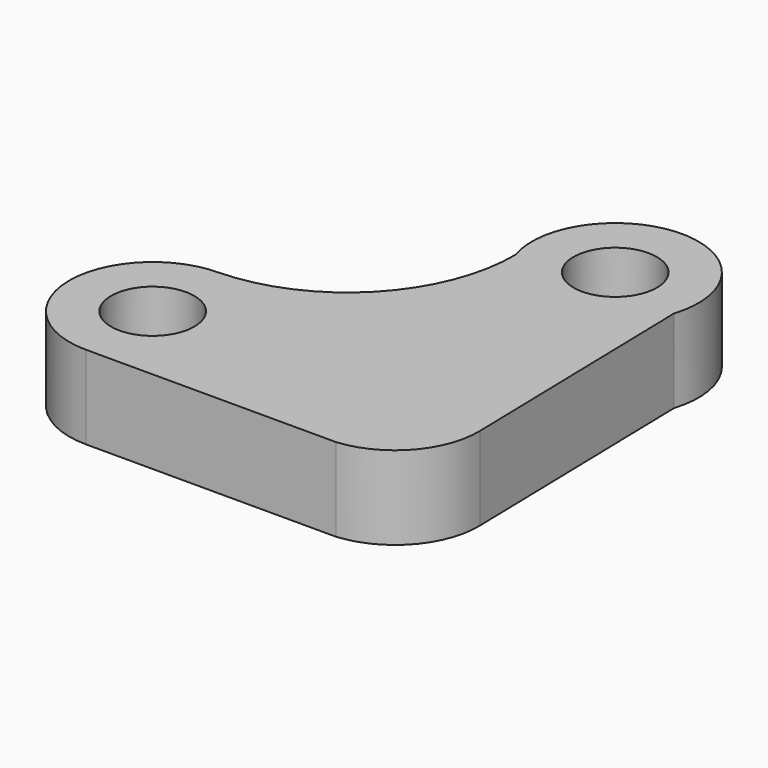
from build123d import *

# Parameters (mm, degrees)
F0_R     = 2.5
F1_DEPTH = 5


with BuildPart() as f1:
    # F0 (on Top) → F1 (new body)
    with BuildSketch(Plane.XY):
        with BuildLine():
            ThreePointArc((5.304039, 14.995992), (2.51685, 7.972221), (-4.388714, 4.90384))
            ThreePointArc((-4.388714, 4.90384), (-9.388714, -0.09616), (-4.388714, -5.09616))
            Line((-4.388714, -5.09616), (10.611286, -5.09616))
            ThreePointArc((10.611286, -5.09616), (13.897748, -3.449038), (15.169748, 0))
            Line((15.169748, 0), (14.823021, 14.995992))
            ThreePointArc((14.823021, 14.995992), (10.06353, 21.528064), (5.304039, 14.995992))
        make_face()
        with Locations((-4.388714, -0.09616)):
            Circle(F0_R, mode=Mode.SUBTRACT)
        with Locations((10.06353, 16.528064)):
            Circle(F0_R, mode=Mode.SUBTRACT)
    extrude(amount=F1_DEPTH)


solid = f1.part
